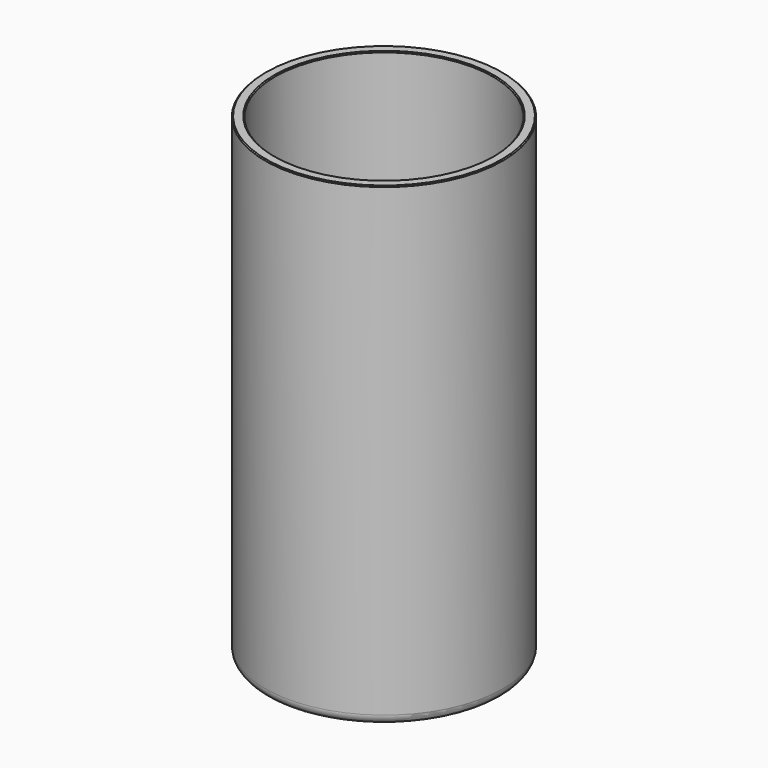
from build123d import *

# Parameters (mm, degrees)
F3_SIZE  = 0.635
F4_R     = 6
F5_DEPTH = 5
F5_TAPER = 4
F6_R     = 1


with BuildPart() as f2:
    # F0 (on Front) → F2 (revolve)
    with BuildSketch(Plane.XZ):
        with BuildLine():
            Line((-69.85, 0), (-43.27, 0))
            ThreePointArc((-43.27, 0), (-42.3719743879, 0.3719743879), (-42, 1.27))
            Line((-42, 1.27), (-42, 11.43))
            ThreePointArc((-42, 11.43), (-42.3719743879, 12.3280256121), (-43.27, 12.7))
            Line((-43.27, 12.7), (-68.58, 12.7))
            ThreePointArc((-68.58, 12.7), (-69.4780256121, 13.0719743879), (-69.85, 13.97))
            Line((-69.85, 13.97), (-69.85, 304.8))
            Line((-69.85, 304.8), (-76.2, 304.8))
            Line((-76.2, 304.8), (-76.2, 6.35))
            ThreePointArc((-76.2, 6.35), (-74.3401280605, 1.8598719395), (-69.85, 0))
        make_face()
    revolve(axis=Axis((0, 0, 44.2740730941), (0, 0, 1)))

    # F3
    f3_edges = [f2.edges().sort_by_distance(p)[0] for p in [
        (69.85, 0, 304.8),
        (76.2, 0, 304.8),
    ]]
    chamfer(f3_edges, length=F3_SIZE)

    # F4 (on face) → F5 (join)
    with BuildSketch(Plane(origin=(0, 0, 0), x_dir=(1, 0, 0), z_dir=(0, 0, -1))):
        with Locations((0, 59)):
            Circle(F4_R)
        with Locations((-59, 0)):
            Circle(F4_R)
        with Locations((0, -59)):
            Circle(F4_R)
        with Locations((59, 0)):
            Circle(F4_R)
    extrude(amount=F5_DEPTH, taper=F5_TAPER)

    # F6
    f6_edges = [f2.edges().sort_by_distance(p)[0] for p in [
        (-5.650366, -59, -5),
        (-64.650366, 0, -5),
        (-5.650366, 59, -5),
        (53.349634, 0, -5),
    ]]
    fillet(f6_edges, radius=F6_R)


solid = f2.part
